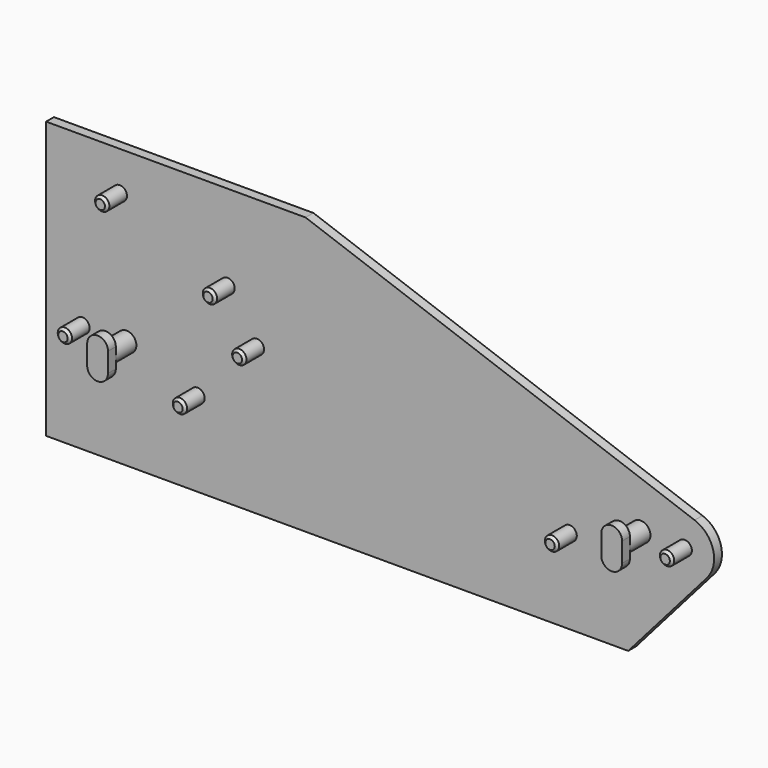
from build123d import *

# Parameters (mm, degrees)
F1_DEPTH  = 3.175
F2_R      = 4.6355
F3_DEPTH  = 15.875
F4_SIZE   = 1.5875
F6_R      = 6.35
F7_DEPTH  = 17.145
F9_DEPTH  = 6.35
F11_DEPTH = 6.35


with BuildPart() as f1:
    # F0 (on Front) → F1 (new body, symmetric)
    with BuildSketch(Plane.XZ):
        with BuildLine():
            Line((0, 179.4002), (0, 0))
            Line((0, 0), (377.5202, 0))
            Line((377.5202, 0), (428.4760097452, 58.1765707746))
            ThreePointArc((428.4760097452, 58.1765707746), (432.588720587, 75.4986793815), (420.5927391638, 88.6541446621))
            Line((420.5927391638, 88.6541446621), (168.275, 179.4002))
            Line((168.275, 179.4002), (0, 179.4002))
        make_face()
    extrude(amount=F1_DEPTH, both=True)

    # F2 (on face) → F3 (join)
    with BuildSketch(Plane.XZ.offset(3.175)):
        with Locations((23.622, 70.7136)):
            Circle(F2_R)
        with Locations((98.2218, 54.8386)):
            Circle(F2_R)
        with Locations((339.5218, 54.8386)):
            Circle(F2_R)
        with Locations((136.7282, 95.3262)):
            Circle(F2_R)
        with Locations((47.8282, 154.051)):
            Circle(F2_R)
        with Locations((117.6782, 123.9012)):
            Circle(F2_R)
        with Locations((414.147, 70.7136)):
            Circle(F2_R)
    extrude(amount=F3_DEPTH)

    # F4
    f4_edges = [f1.edges().sort_by_distance(p)[0] for p in [
        (18.9865, -19.05, 70.7136),
        (43.1927, -19.05, 154.051),
        (93.5863, -19.05, 54.8386),
        (113.0427, -19.05, 123.9012),
        (132.0927, -19.05, 95.3262),
        (334.8863, -19.05, 54.8386),
        (409.5115, -19.05, 70.7136),
    ]]
    chamfer(f4_edges, length=F4_SIZE)

    # F6 (on face) → F7 (join)
    with BuildSketch(Plane.XZ.offset(3.175)):
        with Locations((385.572, 70.7136)):
            Circle(F6_R)
        with Locations((52.197, 70.7136)):
            Circle(F6_R)
    extrude(amount=F7_DEPTH)

    # F8 (on face) → F9 (join)
    with BuildSketch(Plane.XZ.offset(20.32)):
        with BuildLine():
            ThreePointArc((58.9407, 77.0636), (52.197, 83.8073), (45.4533, 77.0636))
            Line((45.4533, 77.0636), (45.4533, 64.3636))
            ThreePointArc((45.4533, 64.3636), (52.197, 57.6199), (58.9407, 64.3636))
            Line((58.9407, 64.3636), (58.9407, 77.0636))
        make_face()
    extrude(amount=F9_DEPTH)

    # F10 (on face) → F11 (join)
    with BuildSketch(Plane.XZ.offset(20.32)):
        with BuildLine():
            ThreePointArc((387.8424602375, 70.7136), (391.0851112991, 73.1799041451), (392.3157, 77.0636))
            ThreePointArc((392.3157, 77.0636), (385.572, 83.8073), (378.8283, 77.0636))
            ThreePointArc((378.8283, 77.0636), (380.0588887009, 73.1799041451), (383.3015397625, 70.7136))
            ThreePointArc((383.3015397625, 70.7136), (385.572, 71.1073), (387.8424602375, 70.7136))
        make_face()
        with BuildLine():
            Line((392.3157, 64.3636), (392.3157, 77.0636))
            ThreePointArc((392.3157, 77.0636), (391.0851112991, 73.1799041451), (387.8424602375, 70.7136))
            ThreePointArc((387.8424602375, 70.7136), (391.0851112991, 68.2472958549), (392.3157, 64.3636))
        make_face()
        with BuildLine():
            ThreePointArc((383.3015397625, 70.7136), (380.0588887009, 73.1799041451), (378.8283, 77.0636))
            Line((378.8283, 77.0636), (378.8283, 64.3636))
            ThreePointArc((378.8283, 64.3636), (380.0588887009, 68.2472958549), (383.3015397625, 70.7136))
        make_face()
        with BuildLine():
            ThreePointArc((392.3157, 64.3636), (391.0851112991, 68.2472958549), (387.8424602375, 70.7136))
            ThreePointArc((387.8424602375, 70.7136), (385.572, 70.3199), (383.3015397625, 70.7136))
            ThreePointArc((383.3015397625, 70.7136), (380.0588887009, 68.2472958549), (378.8283, 64.3636))
            ThreePointArc((378.8283, 64.3636), (385.572, 57.6199), (392.3157, 64.3636))
        make_face()
        with BuildLine():
            ThreePointArc((383.3015397625, 70.7136), (385.572, 70.3199), (387.8424602375, 70.7136))
            ThreePointArc((387.8424602375, 70.7136), (385.572, 71.1073), (383.3015397625, 70.7136))
        make_face()
    extrude(amount=F11_DEPTH)


solid = f1.part
